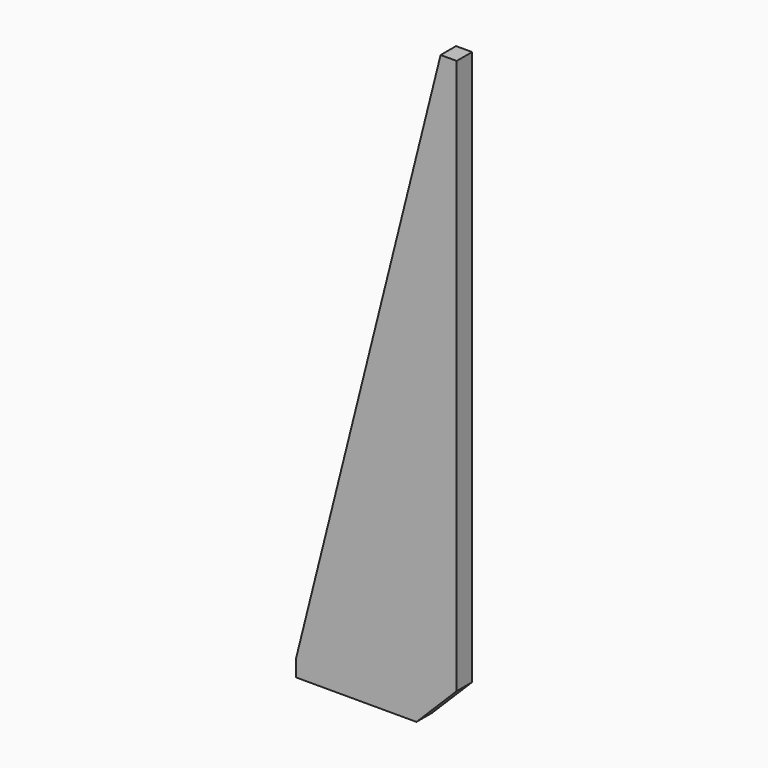
from build123d import *

# Parameters (mm, degrees)
F0_W     = 25.4
F0_H     = 93.98
F1_DEPTH = 3.048
F2_SIZE2 = 91.44
F2_SIZE  = 22.86
F3_SIZE2 = 6.35
F3_SIZE  = 6.35


with BuildPart() as f1:
    # F0 (on Front) → F1 (new body)
    with BuildSketch(Plane.XZ):
        Rectangle(F0_W, F0_H)
    extrude(amount=F1_DEPTH)

    # F2
    f2_edges = [f1.edges().sort_by_distance(p)[0] for p in [
        (-12.7, -1.524, 46.99),
    ]]
    f2_side = f1.faces().sort_by_distance((0, -1.524, 46.99))[0]
    chamfer(f2_edges, length=F2_SIZE, length2=F2_SIZE2, reference=f2_side)

    # F3
    f3_edges = [f1.edges().sort_by_distance(p)[0] for p in [
        (12.7, -1.524, -46.99),
    ]]
    chamfer(f3_edges, length=F3_SIZE, length2=F3_SIZE2)


solid = f1.part
